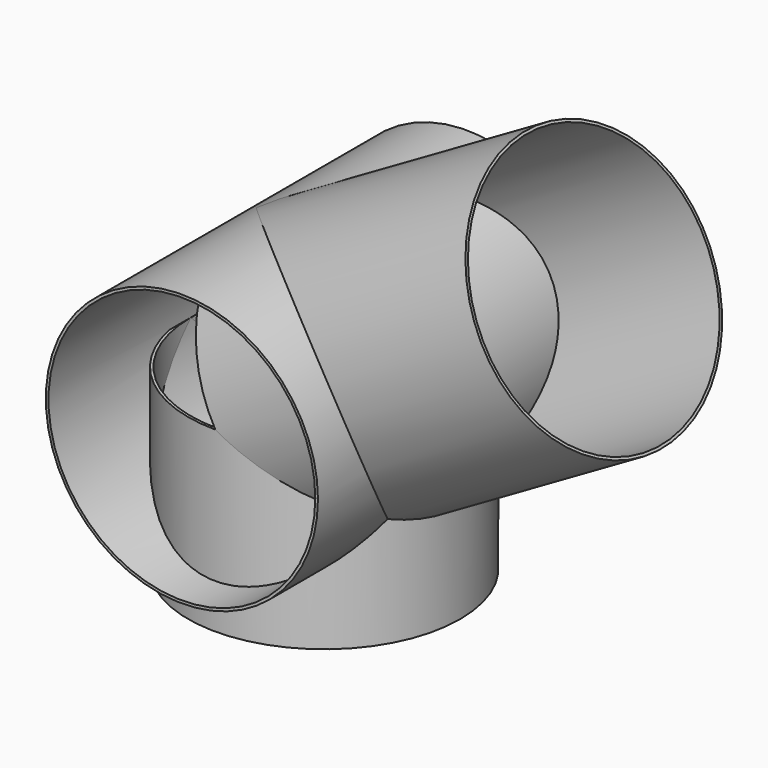
from build123d import *

# Parameters (mm, degrees)
F0_R     = 153
F0_R_2   = 150
F1_DEPTH = 200
F3_R     = 153
F3_R_2   = 150
F4_DEPTH = 350
F5_R     = 153
F5_R_2   = 150
F6_DEPTH = 200


with BuildPart() as f1:
    # F0 (on Front) → F1 (new body, symmetric)
    with BuildSketch(Plane.XZ):
        Circle(F0_R)
        Circle(F0_R_2, mode=Mode.SUBTRACT)
    extrude(amount=F1_DEPTH, both=True)

    # F3 (on face) → F4 (join)
    with BuildSketch(Plane(origin=(0, 0, 0), x_dir=(0, 1, 0), z_dir=(0.8660254038, 0, 0.5))):
        Circle(F3_R)
        Circle(F3_R_2, mode=Mode.SUBTRACT)
    extrude(amount=F4_DEPTH)

    # F5 (on Top) → F6 (join)
    with BuildSketch(Plane.XY):
        Circle(F5_R)
        Circle(F5_R_2, mode=Mode.SUBTRACT)
    extrude(amount=-F6_DEPTH)

    # F7: F1 across plane


with BuildPart() as f1_1:
    add(f1.part)
    add(f1.part.mirror(Plane.XZ))


solid = f1_1.part
